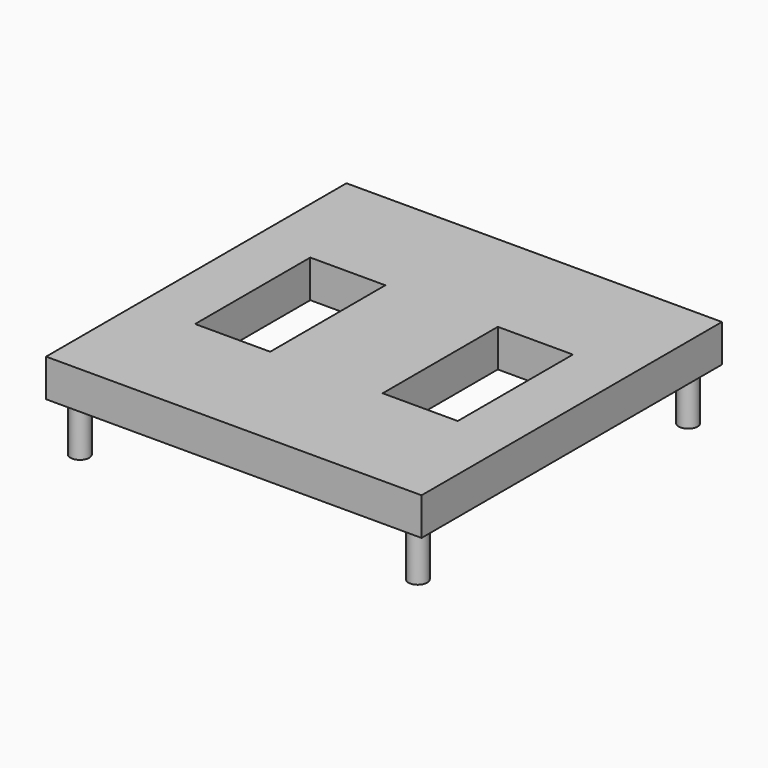
from build123d import *

# Parameters (mm, degrees)
F0_W     = 60
F0_H     = 60
F0_W_2   = 12
F0_H_2   = 23
F1_DEPTH = 6
F2_R     = 1.5
F3_DEPTH = 8


with BuildPart() as f1:
    # F0 (on Top) → F1 (new body)
    with BuildSketch(Plane.XY):
        Rectangle(F0_W, F0_H)
        with Locations((-14.985624, 0)):
            Rectangle(F0_W_2, F0_H_2, mode=Mode.SUBTRACT)
        with Locations((14.985624, 0)):
            Rectangle(F0_W_2, F0_H_2, mode=Mode.SUBTRACT)
    extrude(amount=F1_DEPTH)

    # F2 (on face) → F3 (join)
    with BuildSketch(Plane(origin=(0, 0, 0), x_dir=(1, 0, 0), z_dir=(0, 0, -1))):
        with Locations((-27, 27)):
            Circle(F2_R)
        with Locations((27, 27)):
            Circle(F2_R)
        with Locations((27, -27)):
            Circle(F2_R)
        with Locations((-27, -27)):
            Circle(F2_R)
    extrude(amount=F3_DEPTH)


solid = f1.part
